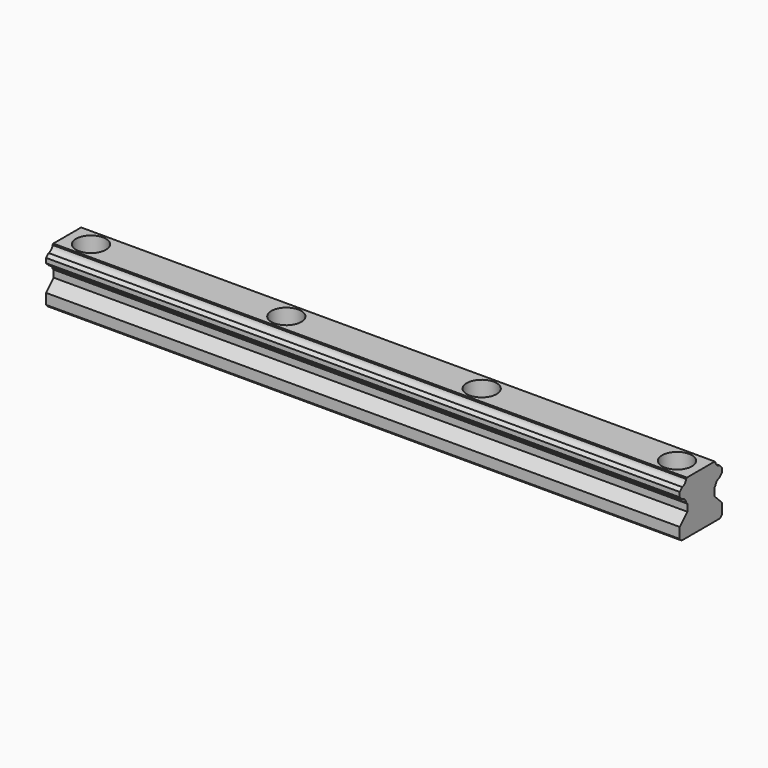
from build123d import *

# Parameters (mm, degrees)
F1_DEPTH       = 180
F3_D           = 4.5
F3_CBORE_D     = 8.5
F3_CBORE_DEPTH = 5.5


with BuildPart() as f1:
    # F0 (on Right) → F1 (new body)
    with BuildSketch(Plane.YZ):
        with BuildLine():
            Line((-6.8, 0), (6.8, 0))
            Line((6.8, 0), (7.5, 0.7))
            Line((7.5, 0.7), (7.5, 3.699439))
            Line((7.5, 3.699439), (4.799805, 6.399634))
            Line((4.799805, 6.399634), (4.799805, 8.409149))
            Line((4.799805, 8.409149), (5.200758, 8.810103))
            ThreePointArc((5.200758, 8.810103), (5.668922, 9.789262), (6.648081, 10.257425))
            Line((6.648081, 10.257425), (7.5, 11.109345))
            Line((7.5, 11.109345), (7.5, 12.449454))
            Line((7.5, 12.449454), (6.634491, 13.314965))
            ThreePointArc((6.634491, 13.314965), (5.668922, 13.781617), (5.20227, 14.747186))
            Line((5.20227, 14.747186), (4.949456, 15))
            Line((4.949456, 15), (-4.949456, 15))
            Line((-4.949456, 15), (-5.20227, 14.747186))
            ThreePointArc((-5.20227, 14.747186), (-5.668922, 13.781617), (-6.634491, 13.314965))
            Line((-6.634491, 13.314965), (-7.5, 12.449454))
            Line((-7.5, 12.449454), (-7.5, 11.109345))
            Line((-7.5, 11.109345), (-6.648081, 10.257425))
            ThreePointArc((-6.648081, 10.257425), (-5.668922, 9.789262), (-5.200758, 8.810103))
            Line((-5.200758, 8.810103), (-4.799805, 8.409149))
            Line((-4.799805, 8.409149), (-4.799805, 6.399634))
            Line((-4.799805, 6.399634), (-7.5, 3.699439))
            Line((-7.5, 3.699439), (-7.5, 0.7))
            Line((-7.5, 0.7), (-6.8, 0))
        make_face()
    extrude(amount=F1_DEPTH)

    # F3 (through all)
    with Locations(Plane.XY.offset(15)):
        with Locations((6.75, 0), (62.25, 0), (117.75, 0), (173.25, 0)):
            CounterBoreHole(F3_D / 2, F3_CBORE_D / 2, F3_CBORE_DEPTH)


solid = f1.part
